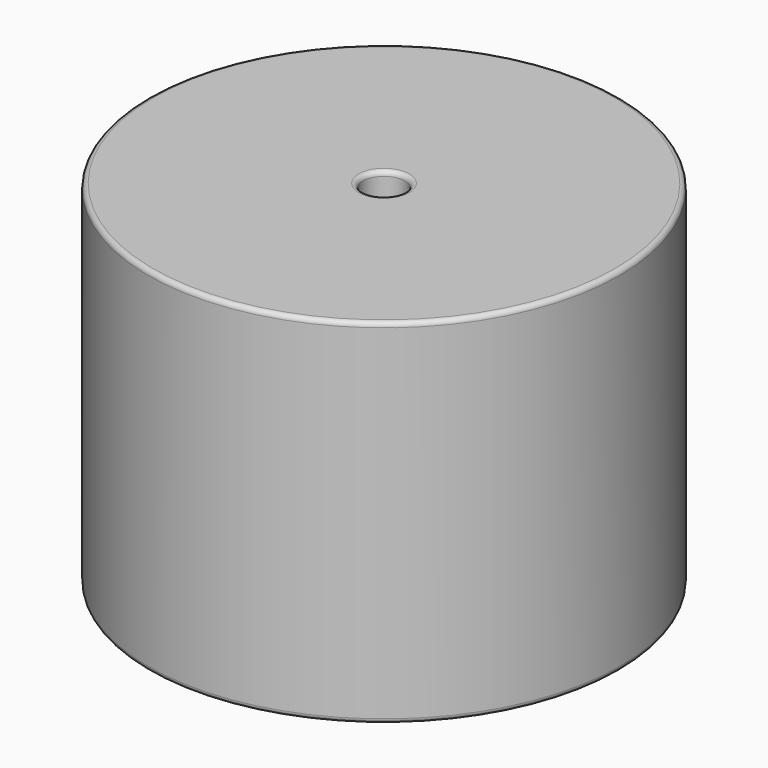
from build123d import *

# Parameters (mm, degrees)
SKETCH001_R       = 1.3
PAD001_DEPTH      = 19.05
PAD001_DEPTH_BACK = 3.5
SKETCH_R          = 25.4
SKETCH_R_2        = 2.225
PAD_DEPTH         = 38.1
FILLET_R          = 0.5


with BuildPart() as pad001:
    # Sketch001 → Pad001 (new body, two sides)
    with BuildSketch(Plane.XY.offset(0.5)) as pad001_sk:
        Circle(SKETCH001_R)
        with Locations((36.32, 0)):
            Circle(SKETCH001_R)
    extrude(amount=PAD001_DEPTH)
    extrude(pad001_sk.sketch, amount=-PAD001_DEPTH_BACK)


with BuildPart() as fillet_body:
    # Sketch → Pad (new body)
    with BuildSketch(Plane.XY.offset(0.1)):
        with Locations((18.16, 0)):
            Circle(SKETCH_R)
        with Locations((18.16, 0)):
            Circle(SKETCH_R_2, mode=Mode.SUBTRACT)
    extrude(amount=PAD_DEPTH)

    # Fillet
    fillet_edges = [fillet_body.edges().sort_by_distance(p)[0] for p in [
        (15.935, 0, 38.2),
        (-7.24, 0, 38.2),
        (-7.24, 0, 0.1),
    ]]
    fillet(fillet_edges, radius=FILLET_R)


solid = Compound([pad001.part, fillet_body.part])
